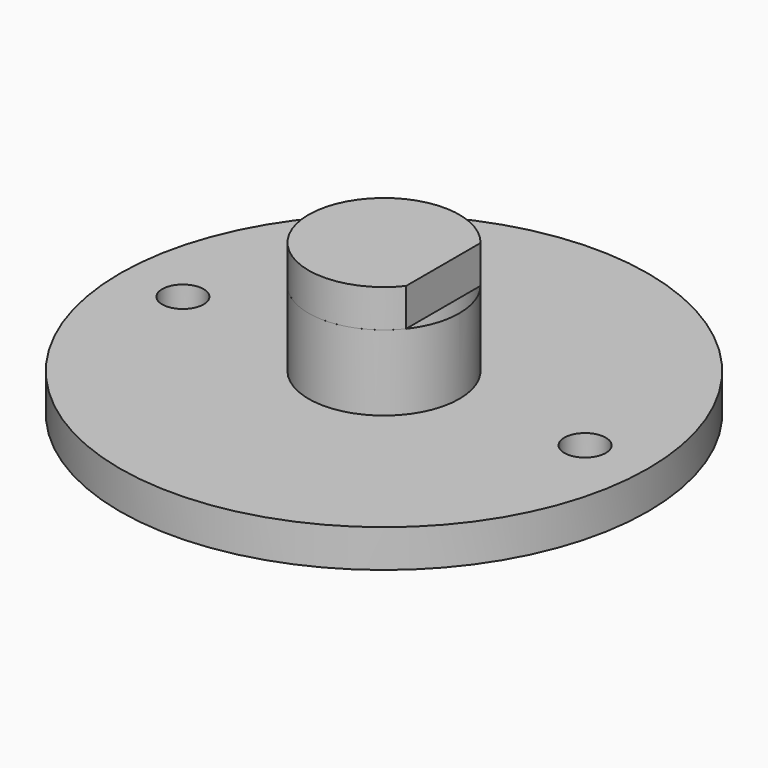
from build123d import *

# Parameters (mm, degrees)
SKETCH013_R      = 5.999998
EXTRUDE006_DEPTH = 6
EXTRUDE005_DEPTH = 3
SKETCH014_R      = 21.015318
SKETCH014_R_2    = 1.65
EXTRUDE007_DEPTH = 3


with BuildPart() as extrude006:
    # Sketch013 (on Face4 of Extrude005) → Extrude006 (new body)
    with BuildSketch(Plane(origin=(0, 0, 3), x_dir=(1, 0, 0), z_dir=(0, 0, -1))):
        with Locations((-437.216583, -156.54342)):
            Circle(SKETCH013_R)
    extrude(amount=EXTRUDE006_DEPTH)


with BuildPart() as extrude005:
    # Sketch012 → Extrude005 (new body)
    with BuildSketch(Plane.XY.offset(6)):
        with BuildLine():
            ThreePointArc((-432.497241, 160.248523), (-443.216581, 156.54342), (-432.497241, 152.838318))
            Line((-432.497241, 160.248523), (-432.497241, 152.838318))
        make_face()
    extrude(amount=-EXTRUDE005_DEPTH)


with BuildPart() as fusion002:
    # Sketch014 (on Face3 of Extrude006) → Extrude007 (new body)
    with BuildSketch(Plane(origin=(0, 0, -3), x_dir=(1, 0, 0), z_dir=(0, 0, -1))):
        with Locations((-437.216583, -156.54342)):
            Circle(SKETCH014_R)
        with Locations((-453.216588, -156.543406)):
            Circle(SKETCH014_R_2, mode=Mode.SUBTRACT)
        with Locations((-421.216588, -156.543406)):
            Circle(SKETCH014_R_2, mode=Mode.SUBTRACT)
    extrude(amount=EXTRUDE007_DEPTH)

    # Fusion002: union Extrude006, Extrude005
    add(extrude006.part)
    add(extrude005.part)


solid = fusion002.part
